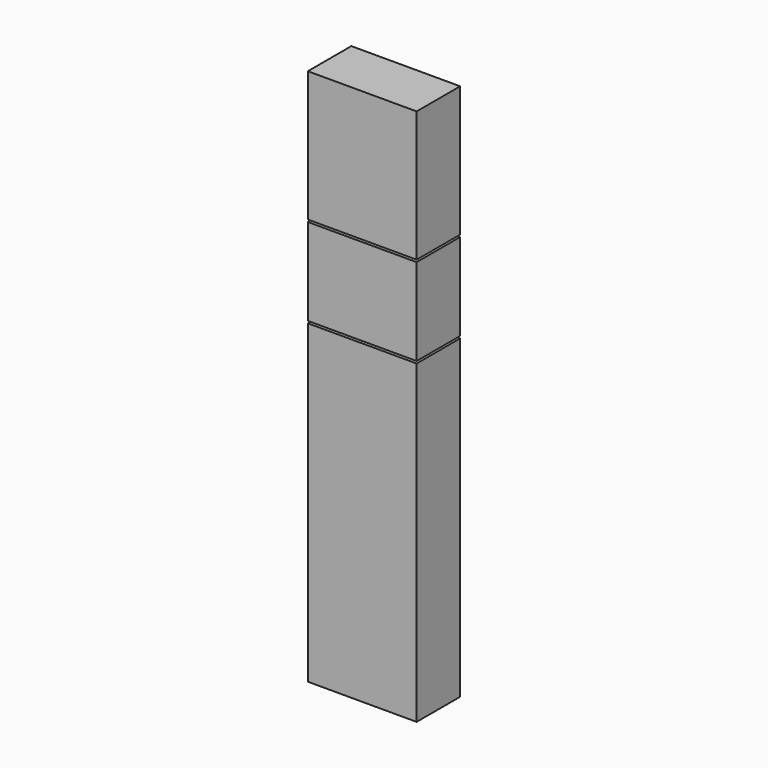
from build123d import *

# Parameters (mm, degrees)
F0_W     = 50
F0_H     = 145
F0_H_2   = 40
F0_H_3   = 60
F1_DEPTH = 25


with BuildPart() as f1:
    # F0 (on Front) → F1 (new body)
    with BuildSketch(Plane.XZ):
        with Locations((25, 72.5)):
            Rectangle(F0_W, F0_H)
        with Locations((25, 166)):
            Rectangle(F0_W, F0_H_2)
        with Locations((25, 217)):
            Rectangle(F0_W, F0_H_3)
    extrude(amount=-F1_DEPTH)


solid = f1.part
